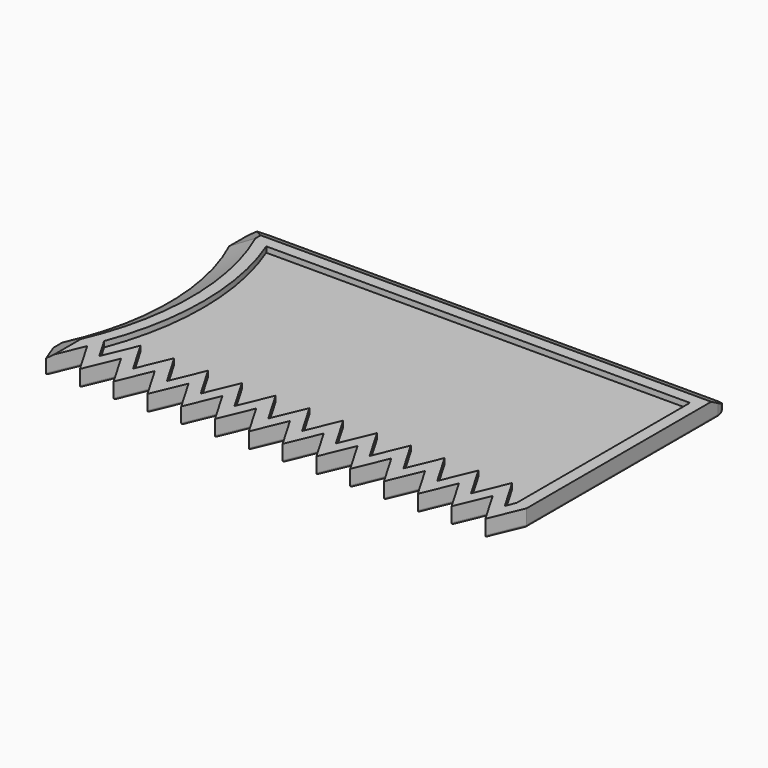
from build123d import *

# Parameters (mm, degrees)
F1_DEPTH = 3
F2_SIZE2 = 4
F2_SIZE  = 2.2
F3_R     = 2.5
F5_DEPTH = 1
F6_R     = 0.4


with BuildPart() as f1:
    # F0 (on Top) → F1 (new body)
    with BuildSketch(Plane.XY):
        with BuildLine():
            Line((84, 6), (84, 51))
            Line((84, 51), (0, 51))
            Line((0, 51), (0, 45))
            ThreePointArc((0, 45), (4.070965, 26.5), (0, 8))
            Line((0, 8), (0, 6))
            Line((0, 6), (3.5, 0))
            Line((3.5, 0), (6, 6))
            Line((6, 6), (9.5, 0))
            Line((9.5, 0), (12, 6))
            Line((12, 6), (15.5, 0))
            Line((15.5, 0), (18, 6))
            Line((18, 6), (21.5, 0))
            Line((21.5, 0), (24, 6))
            Line((24, 6), (27.5, 0))
            Line((27.5, 0), (30, 6))
            Line((30, 6), (33.5, 0))
            Line((33.5, 0), (36, 6))
            Line((36, 6), (39.5, 0))
            Line((39.5, 0), (42, 6))
            Line((42, 6), (45.5, 0))
            Line((45.5, 0), (48, 6))
            Line((48, 6), (51.5, 0))
            Line((51.5, 0), (54, 6))
            Line((54, 6), (57.5, 0))
            Line((57.5, 0), (60, 6))
            Line((60, 6), (63.5, 0))
            Line((63.5, 0), (66, 6))
            Line((66, 6), (69.5, 0))
            Line((69.5, 0), (72, 6))
            Line((72, 6), (75.5, 0))
            Line((75.5, 0), (78, 6))
            Line((78, 6), (81.5, 0))
            Line((81.5, 0), (84, 6))
        make_face()
    extrude(amount=F1_DEPTH)

    # F2
    f2_edges = [f1.edges().sort_by_distance(p)[0] for p in [
        (0, 7, 3),
        (4.070965, 26.5, 3),
        (42, 51, 3),
        (0, 48, 3),
    ]]
    chamfer(f2_edges, length=F2_SIZE, length2=F2_SIZE2)

    # F3
    f3_edges = [f1.edges().sort_by_distance(p)[0] for p in [
        (0, 51, 0.4),
        (84, 51, 0.4),
    ]]
    fillet(f3_edges, radius=F3_R)

    # F4 (on face) → F5 (cut)
    with BuildSketch(Plane.XY.offset(3)):
        with BuildLine():
            Line((81.185907, 4.706178), (81.9, 6.42))
            Line((81.9, 6.42), (81.9, 44.9))
            Line((81.9, 44.9), (6.675109, 44.9))
            ThreePointArc((6.675109, 44.9), (10.170108, 26.793334), (6.887072, 8.647038))
            Line((6.887072, 8.647038), (9.185907, 4.706178))
            Line((9.185907, 4.706178), (11.685907, 10.706178))
            Line((11.685907, 10.706178), (15.185907, 4.706178))
            Line((15.185907, 4.706178), (17.685907, 10.706178))
            Line((17.685907, 10.706178), (21.185907, 4.706178))
            Line((21.185907, 4.706178), (23.685907, 10.706178))
            Line((23.685907, 10.706178), (27.185907, 4.706178))
            Line((27.185907, 4.706178), (29.685907, 10.706178))
            Line((29.685907, 10.706178), (33.185907, 4.706178))
            Line((33.185907, 4.706178), (35.685907, 10.706178))
            Line((35.685907, 10.706178), (39.185907, 4.706178))
            Line((39.185907, 4.706178), (41.685907, 10.706178))
            Line((41.685907, 10.706178), (45.185907, 4.706178))
            Line((45.185907, 4.706178), (47.685907, 10.706178))
            Line((47.685907, 10.706178), (51.185907, 4.706178))
            Line((51.185907, 4.706178), (53.685907, 10.706178))
            Line((53.685907, 10.706178), (57.185907, 4.706178))
            Line((57.185907, 4.706178), (59.685907, 10.706178))
            Line((59.685907, 10.706178), (63.185907, 4.706178))
            Line((63.185907, 4.706178), (65.685907, 10.706178))
            Line((65.685907, 10.706178), (69.185907, 4.706178))
            Line((69.185907, 4.706178), (71.685907, 10.706178))
            Line((71.685907, 10.706178), (75.185907, 4.706178))
            Line((75.185907, 4.706178), (77.685907, 10.706178))
            Line((77.685907, 10.706178), (81.185907, 4.706178))
        make_face()
    extrude(amount=-F5_DEPTH, mode=Mode.SUBTRACT)

    # F6
    f6_edges = [f1.edges().sort_by_distance(p)[0] for p in [
        (84, 27.25, 0),
        (83.267767, 50.267767, 0),
        (82.75, 3, 0),
        (42, 51, 0),
        (79.75, 3, 0),
        (0.732233, 50.267767, 0),
        (76.75, 3, 0),
        (0, 46.75, 0),
        (73.75, 3, 0),
        (4.070965, 26.5, 0),
        (70.75, 3, 0),
        (0, 7, 0),
        (67.75, 3, 0),
        (1.75, 3, 0),
        (64.75, 3, 0),
        (4.75, 3, 0),
        (61.75, 3, 0),
        (7.75, 3, 0),
        (58.75, 3, 0),
        (10.75, 3, 0),
        (55.75, 3, 0),
        (13.75, 3, 0),
        (52.75, 3, 0),
        (16.75, 3, 0),
        (49.75, 3, 0),
        (19.75, 3, 0),
        (46.75, 3, 0),
        (22.75, 3, 0),
        (43.75, 3, 0),
        (25.75, 3, 0),
        (40.75, 3, 0),
        (28.75, 3, 0),
        (37.75, 3, 0),
        (31.75, 3, 0),
        (34.75, 3, 0),
    ]]
    fillet(f6_edges, radius=F6_R)


solid = f1.part
